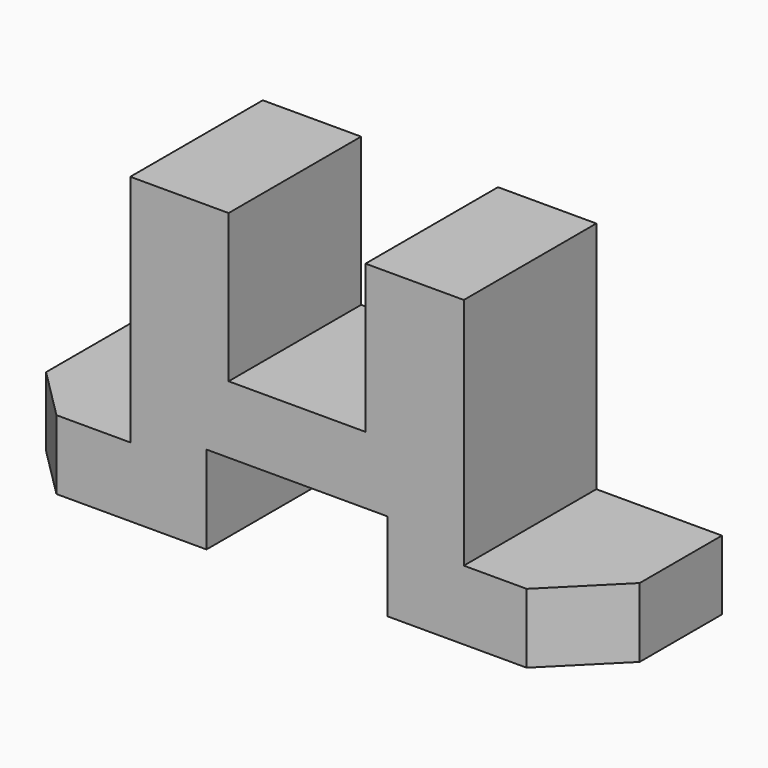
from build123d import *

# Parameters (mm, degrees)
F1_DEPTH = 32
F3_DEPTH = 13.419725
F5_DEPTH = 13.419725


with BuildPart() as f1:
    # F0 (on Front) → F1 (new body)
    with BuildSketch(Plane.XZ):
        Polygon((-56.5, 13.418725), (-56.5, 0), (-17.5, 0), (-17.5, 17), (17.5, 17), (17.5, 0), (56.5, 0), (56.5, 13.418725), (32.225927, 13.418725), (32.225927, 58.61873), (13.225927, 58.61873), (13.225927, 30), (-13.225927, 30), (-13.225927, 58.61873), (-32.225927, 58.61873), (-32.225927, 13.418725), align=None)
    extrude(amount=F1_DEPTH)

    # F2 (on face) → F3 (cut, through all)
    with BuildSketch(Plane.XY.offset(13.418725)):
        Polygon((-56.5, -32), (-46.5, -32), (-56.5, -22), align=None)
    extrude(amount=-F3_DEPTH, mode=Mode.SUBTRACT)

    # F4 (on face) → F5 (cut, through all)
    with BuildSketch(Plane.XY.offset(13.418725)):
        Polygon((56.5, -19.862964), (44.362964, -32), (56.5, -32), align=None)
    extrude(amount=-F5_DEPTH, mode=Mode.SUBTRACT)


solid = f1.part
